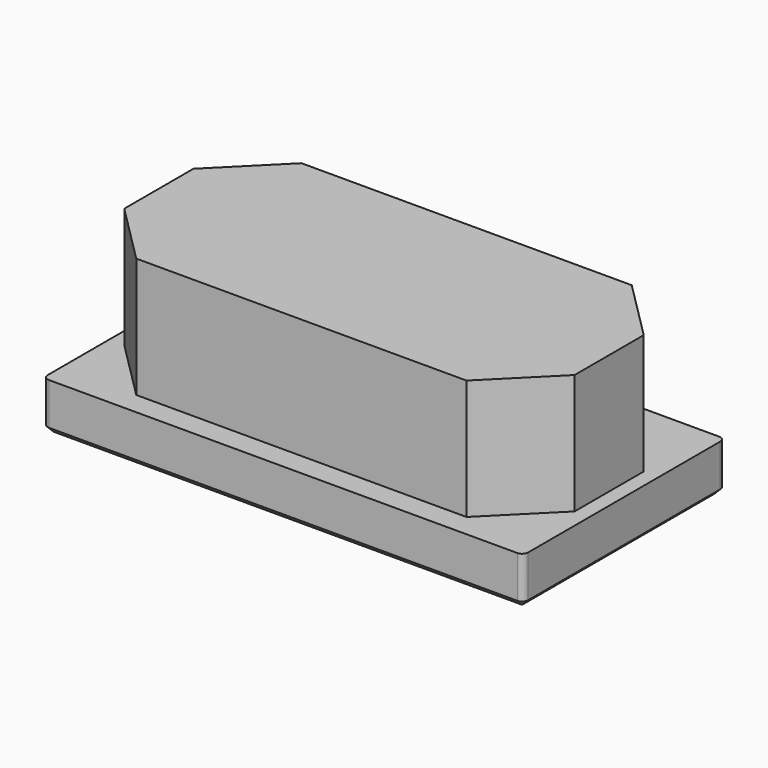
from build123d import *

# Parameters (mm, degrees)
F0_W     = 40
F0_H     = 21
F1_DEPTH = 4
F2_W     = 37.5
F2_H     = 17.2
F3_DEPTH = 10
F4_SIZE  = 5
F5_R     = 0.5
F6_SIZE  = 0.5


with BuildPart() as f1:
    # F0 (on Top) → F1 (new body)
    with BuildSketch(Plane.XY):
        Rectangle(F0_W, F0_H)
    extrude(amount=F1_DEPTH)

    # F2 (on face) → F3 (join)
    with BuildSketch(Plane.XY.offset(4)):
        Rectangle(F2_W, F2_H)
    extrude(amount=F3_DEPTH)

    # F4
    f4_edges = [f1.edges().sort_by_distance(p)[0] for p in [
        (18.75, -8.6, 9),
        (-18.75, -8.6, 9),
        (18.75, 8.6, 9),
        (-18.75, 8.6, 9),
    ]]
    chamfer(f4_edges, length=F4_SIZE)

    # F5
    f5_edges = [f1.edges().sort_by_distance(p)[0] for p in [
        (-20, -10.5, 2),
        (-20, 10.5, 2),
        (20, -10.5, 2),
        (20, 10.5, 2),
    ]]
    fillet(f5_edges, radius=F5_R)

    # F6
    f6_edges = [f1.edges().sort_by_distance(p)[0] for p in [
        (20, 0, 0),
    ]]
    chamfer(f6_edges, length=F6_SIZE)


solid = f1.part
